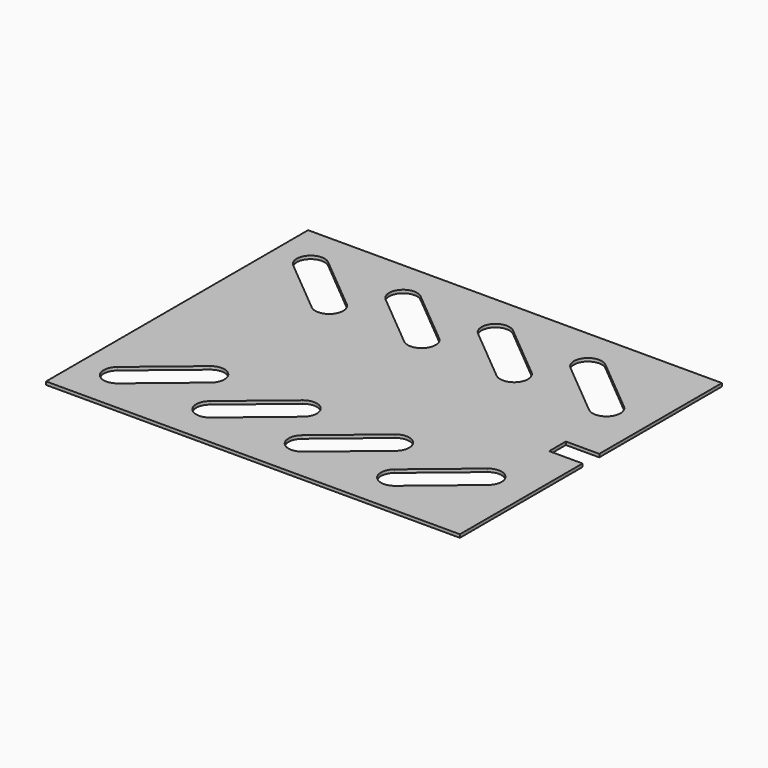
from build123d import *

# Parameters (mm, degrees)
PAD_DEPTH           = 4.318
POCKET_DEPTH        = 5.08
LINEARPATTERN_COUNT = 4
LINEARPATTERN_PITCH = 126.492


with BuildPart() as part:
    # Sketch → Pad (new body)
    with BuildSketch(Plane.XY):
        Polygon((0, 224.155), (566.42, 224.155), (566.42, 14.2875), (520.7, 14.2875), (520.7, -14.2875), (566.42, -14.2875), (566.42, -224.155), (0, -224.155), align=None)
    extrude(amount=PAD_DEPTH)

    # Sketch001 (on Face10 of Pad) → Pocket (cut)
    with BuildSketch(Plane.XY.offset(4.318)):
        with BuildLine():
            ThreePointArc((62.995513, 179.734615), (36.165385, 177.295513), (38.604487, 150.465385))
            Line((38.604487, 150.465385), (114.804487, 86.965385))
            ThreePointArc((114.804487, 86.965385), (141.634615, 89.404487), (139.195513, 116.234615))
            Line((62.995513, 179.734615), (139.195513, 116.234615))
        make_face()
        with BuildLine():
            ThreePointArc((139.195513, -116.234615), (141.634615, -89.404487), (114.804487, -86.965385))
            Line((114.804487, -86.965385), (38.604487, -150.465385))
            ThreePointArc((38.604487, -150.465385), (36.165385, -177.295513), (62.995513, -179.734615))
            Line((139.195513, -116.234615), (62.995513, -179.734615))
        make_face()
    pocket = extrude(amount=-POCKET_DEPTH, mode=Mode.SUBTRACT)

    # LinearPattern: Pocket ×4
    with Locations(*[(i * LINEARPATTERN_PITCH, 0, 0) for i in range(1, LINEARPATTERN_COUNT)]):
        add(pocket, mode=Mode.SUBTRACT)


solid = part.part
